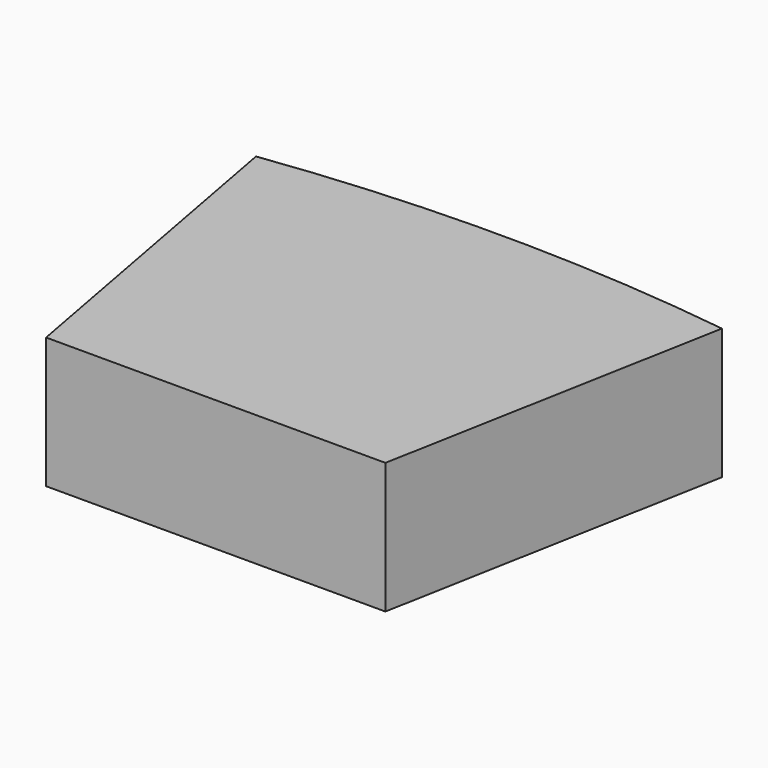
from build123d import *

# Parameters (mm, degrees)
F1_DEPTH = 11


with BuildPart() as f1:
    # F0 (on Top) → F1 (new body)
    with BuildSketch(Plane.XY):
        with BuildLine():
            Line((-14.2567, -15), (14.256576, -15))
            Line((14.256576, -15), (19.575, 13.6955))
            ThreePointArc((19.575, 13.6955), (-1.3e-05, 15), (-19.575, 13.695125))
            Line((-19.575, 13.695125), (-14.2567, -15))
        make_face()
    extrude(amount=F1_DEPTH)


solid = f1.part
